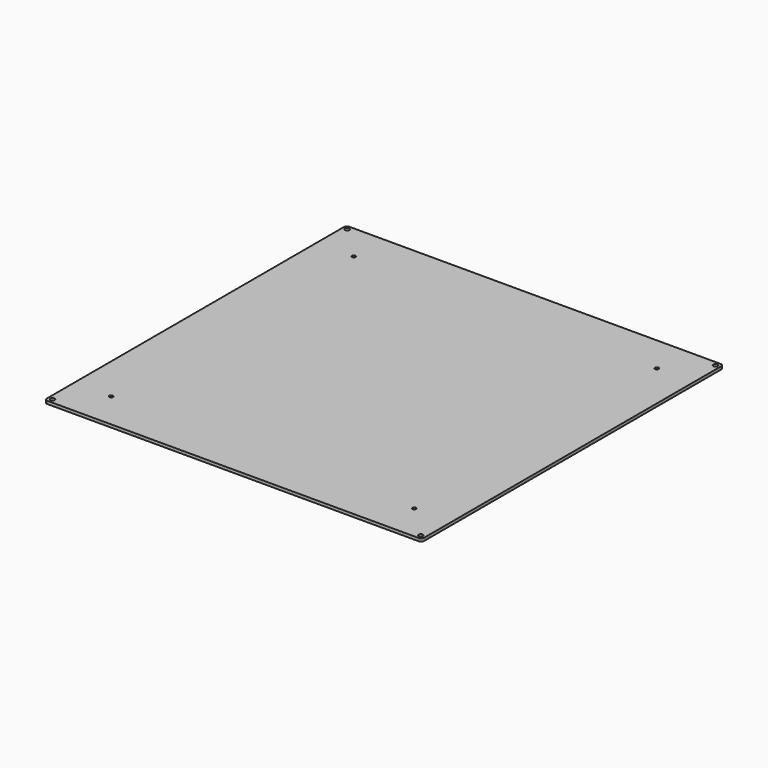
from build123d import *

# Parameters (mm, degrees)
F0_R     = 1.5
F0_R_2   = 1.25
F1_DEPTH = 2


with BuildPart() as f1:
    # F0 (on Top) → F1 (new body)
    with BuildSketch(Plane.XY):
        with BuildLine():
            ThreePointArc((115.252265, 116.199379), (115.838052, 114.785166), (117.252265, 114.199379))
            Line((117.252265, 114.199379), (373.252265, 114.199379))
            ThreePointArc((373.252265, 114.199379), (374.666479, 114.785166), (375.252265, 116.199379))
            Line((375.252265, 116.199379), (375.252265, 372.199379))
            ThreePointArc((375.252265, 372.199379), (374.666479, 373.613593), (373.252265, 374.199379))
            Line((373.252265, 374.199379), (117.252265, 374.199379))
            ThreePointArc((117.252265, 374.199379), (115.838052, 373.613593), (115.252265, 372.199379))
            Line((115.252265, 372.199379), (115.252265, 116.199379))
        make_face()
        with Locations((118.300229, 117.247343)):
            Circle(F0_R, mode=Mode.SUBTRACT)
        with Locations((140.752265, 139.699379)):
            Circle(F0_R_2, mode=Mode.SUBTRACT)
        with Locations((372.204302, 117.247343)):
            Circle(F0_R, mode=Mode.SUBTRACT)
        with Locations((349.752265, 139.699379)):
            Circle(F0_R_2, mode=Mode.SUBTRACT)
        with Locations((118.300229, 371.151415)):
            Circle(F0_R, mode=Mode.SUBTRACT)
        with Locations((140.752265, 348.699379)):
            Circle(F0_R_2, mode=Mode.SUBTRACT)
        with Locations((349.752265, 348.699379)):
            Circle(F0_R_2, mode=Mode.SUBTRACT)
        with Locations((372.204302, 371.151415)):
            Circle(F0_R, mode=Mode.SUBTRACT)
    extrude(amount=F1_DEPTH)


solid = f1.part
